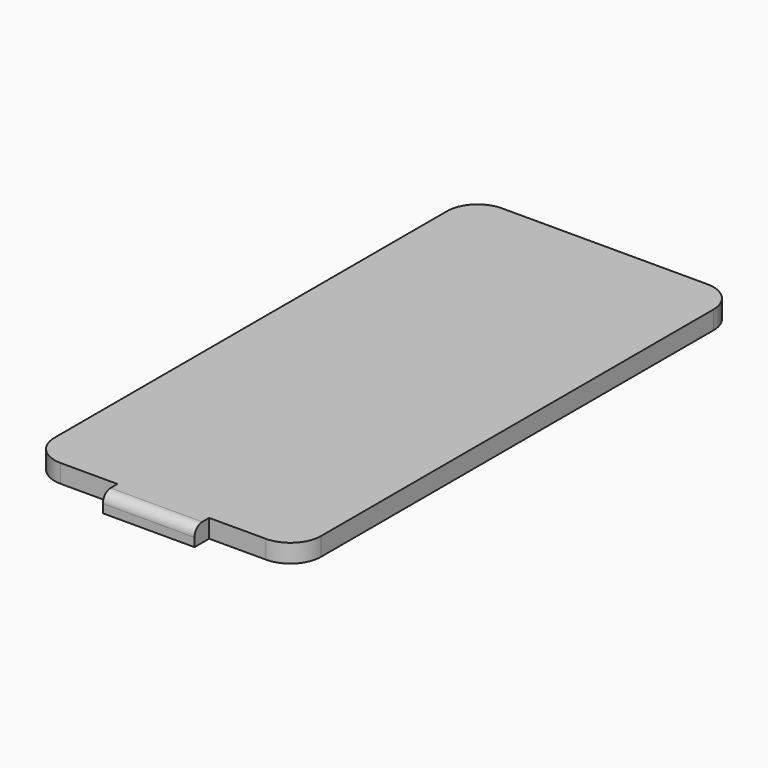
from build123d import *

# Parameters (mm, degrees)
F2_DEPTH = 3.6
F4_DEPTH = 3.6
F5_W     = 40.3048
F5_H     = 1.8
F6_DEPTH = 1.8
F7_R     = 1.9
F8_R     = 0.5


with BuildPart() as f2:
    # F1 (on Top) → F2 (new body)
    with BuildSketch(Plane.XY):
        with BuildLine():
            Line((-20.1524, -54.15), (20.1524, -54.15))
            ThreePointArc((20.1524, -54.15), (24.3933436308, -52.3933436308), (26.15, -48.1524))
            Line((26.15, -48.1524), (26.15, 48.1524))
            ThreePointArc((26.15, 48.1524), (24.3933436308, 52.3933436308), (20.1524, 54.15))
            Line((20.1524, 54.15), (-20.1524, 54.15))
            ThreePointArc((-20.1524, 54.15), (-24.3933436308, 52.3933436308), (-26.15, 48.1524))
            Line((-26.15, 48.1524), (-26.15, -48.1524))
            ThreePointArc((-26.15, -48.1524), (-24.3933436308, -52.3933436308), (-20.1524, -54.15))
        make_face()
    extrude(amount=F2_DEPTH)

    # F3 (on face) → F4 (join)
    with BuildSketch(Plane.XZ.offset(54.15)):
        Polygon((9, 3.6), (-9, 3.6), (-9, 1.8), (-9, 0), (9, 0), (9, 1.8), align=None)
    extrude(amount=F4_DEPTH)

    # F5 (on face) → F6 (join)
    with BuildSketch(Plane(origin=(0, 54.15, 0), x_dir=(-1, 0, 0), z_dir=(0, 1, 0))):
        with Locations((0, 0.9)):
            Rectangle(F5_W, F5_H)
    extrude(amount=F6_DEPTH)

    # F7
    f7_edges = [f2.edges().sort_by_distance(p)[0] for p in [
        (0, -57.75, 3.6),
    ]]
    fillet(f7_edges, radius=F7_R)

    # F8
    f8_edges = [f2.edges().sort_by_distance(p)[0] for p in [
        (0, 55.95, 1.8),
    ]]
    fillet(f8_edges, radius=F8_R)


solid = f2.part
